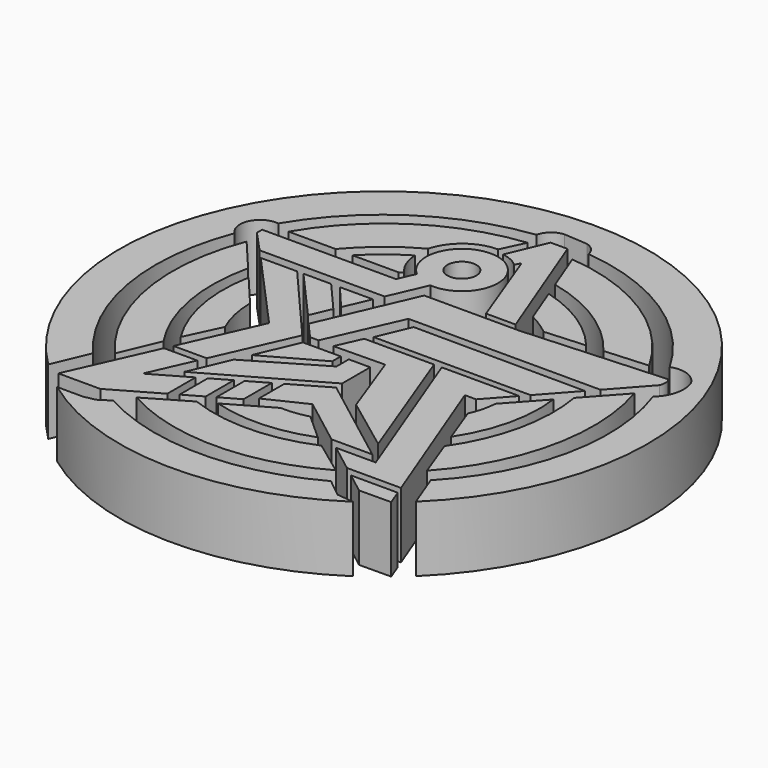
from build123d import *

# Parameters (mm, degrees)
F0_R     = 2.206267
F1_DEPTH = 10


with BuildPart() as f1:
    # F0 (on Top) → F1 (new body)
    with BuildSketch(Plane.XY):
        with BuildLine():
            Line((-8.160051, 10.558454), (-5.707607, 16.196661))
            ThreePointArc((-5.707607, 16.196661), (-3.111134, 26.687053), (-8.783473, 17.488435))
            Line((-8.783473, 17.488435), (-9.9095, 14.899681))
            Line((-9.9095, 14.899681), (-30.305685, 14.899681))
            Line((-30.305685, 14.899681), (-30.305685, 13.89939))
            Line((-30.305685, 13.89939), (-27.231621, 10.558454))
            Line((-27.231621, 10.558454), (-8.160051, 10.558454))
        make_face()
        with Locations((-5.211, 21.597698)):
            Circle(F0_R, mode=Mode.SUBTRACT)
        with BuildLine():
            Line((-17.791193, 16.456968), (-10.785356, 16.456968))
            Line((-10.785356, 16.456968), (-10.160225, 16.788259))
            ThreePointArc((-10.160225, 16.788259), (-11.443322, 18.775511), (-11.945411, 21.087093))
            ThreePointArc((-11.945411, 21.087093), (-15.037333, 18.98544), (-17.791193, 16.456968))
        make_face()
        with BuildLine():
            ThreePointArc((-11.828013, 23.421209), (-9.361755, 27.062532), (-5.201459, 28.488573))
            Line((-5.201459, 28.488573), (-3.519176, 32.017265))
            ThreePointArc((-3.519176, 32.017265), (-17.378382, 27.098752), (-27.543692, 16.471624))
            Line((-27.543692, 16.471624), (-20.377357, 16.471624))
            ThreePointArc((-20.377357, 16.471624), (-16.425684, 20.343769), (-11.828013, 23.421209))
        make_face()
        with BuildLine():
            Line((-1.424065, 33.751212), (-3.916716, 27.801674))
            ThreePointArc((-3.916716, 27.801674), (-2.478493, 27.411224), (-1.244485, 26.575664))
            Line((-1.244485, 26.575664), (-0.780935, 27.44177))
            Line((-0.780935, 27.44177), (4.016954, 14.658319))
            Line((4.016954, 14.658319), (8.524759, 14.658319))
            Line((8.524759, 14.658319), (1.171164, 33.751212))
            Line((1.171164, 33.751212), (-1.424065, 33.751212))
        make_face()
        with BuildLine():
            ThreePointArc((5.767185, 25.624841), (14.221769, 22.091625), (20.949973, 15.871104))
            Line((20.949973, 15.871104), (27.561305, 16.318588))
            ThreePointArc((27.561305, 16.318588), (17.358373, 27.127784), (3.313791, 31.994841))
            Line((3.313791, 31.994841), (5.767185, 25.624841))
        make_face()
        with BuildLine():
            ThreePointArc((8.900849, 17.488588), (10.661104, 16.477152), (12.305066, 15.28598))
            Line((12.305066, 15.28598), (18.460409, 15.7026))
            ThreePointArc((18.460409, 15.7026), (13.146853, 20.411615), (6.661868, 23.301885))
            Line((6.661868, 23.301885), (8.900849, 17.488588))
        make_face()
        with BuildLine():
            Line((-8.538652, -3.18479), (-7.246167, -3.18479))
            Line((-7.246167, -3.18479), (-2.347436, 7.836217))
            Line((-2.347436, 7.836217), (26.92967, 7.836217))
            Line((26.92967, 7.836217), (31.664651, 13.121196))
            ThreePointArc((31.664651, 13.121196), (31.858951, 14.060598), (31.599302, 14.984076))
            Line((31.599302, 14.984076), (9.878736, 13.694647))
            Line((9.878736, 13.694647), (-4.634531, 13.694647))
            Line((-4.634531, 13.694647), (-10.844227, -0.581539))
            Line((-10.844227, -0.581539), (-8.538652, -3.18479))
        make_face()
        Polygon((21.305793, 1.559091), (25.676703, 6.43771), (-0.540337, 6.552964), (-2.632372, 1.559091), align=None)
        Polygon((-8.789597, 9.111119), (-13.819853, 9.111119), (-10.500227, 5.178354), align=None)
        Polygon((-15.15337, 9.111119), (-19.379593, 9.111119), (-12.277591, 1.092167), (-10.914928, 4.224951), align=None)
        Polygon((-20.343829, 9.111119), (-25.89998, 9.111119), (-14.624785, -3.388615), (-19.824501, -15.111743), (-14.757672, -15.111743), (-9.557957, -3.388615), align=None)
        Polygon((-8.369185, -4.767408), (-11.06822, -11.112422), (-2.587006, -6.389737), (-2.587006, -4.767408), align=None)
        Polygon((1.899398, -4.767408), (-1.367139, -4.767408), (-1.367139, -7.108427), (-12.030682, -13.37502), (-14.634387, -19.495927), (1.899398, -10.122532), align=None)
        Polygon((7.395385, 0.530604), (-3.236916, 0.530604), (-4.93186, -3.254772), (2.867269, -3.123561), (6.618928, -13.357226), (14.974818, -19.595129), align=None)
        Polygon((16.914712, -3.342042), (20.384338, 0.530604), (8.573711, 0.530604), (17.743919, -23.523211), (11.700341, -23.523211), (15.951396, -26.768949), (24.19761, -26.768949), (15.189558, -3.342042), align=None)
        with BuildLine():
            ThreePointArc((19.421562, -2.806914), (19.10687, -4.849291), (18.409508, -6.794546))
            Line((18.409508, -6.794546), (20.618835, -12.736638))
            ThreePointArc((20.618835, -12.736638), (23.739491, -5.4938), (24.117973, 2.383633))
            Line((24.117973, 2.383633), (19.421562, -2.806914))
        make_face()
        with BuildLine():
            ThreePointArc((25.799285, 4.241845), (25.550424, -5.858298), (21.503319, -15.115499))
            Line((21.503319, -15.115499), (23.827636, -21.366862))
            ThreePointArc((23.827636, -21.366862), (31.374849, -6.786378), (30.661955, 9.616144))
            Line((30.661955, 9.616144), (25.799285, 4.241845))
        make_face()
        with BuildLine():
            ThreePointArc((32.919805, 10.345283), (34.059871, -7.354304), (25.718371, -23.006604))
            Line((25.718371, -23.006604), (27.785989, -28.4341))
            ThreePointArc((27.785989, -28.4341), (40.017536, 1.903412), (25.682096, 31.305292))
            ThreePointArc((25.682096, 31.305292), (-16.017211, 37.170175), (-40.388612, 2.829763))
            ThreePointArc((-40.388612, 2.829763), (-37.779692, -13.947317), (-28.484943, -28.155925))
            Line((-28.484943, -28.155925), (-26.128077, -22.540232))
            ThreePointArc((-26.128077, -22.540232), (-34.033134, -6.060394), (-32.302855, 12.13524))
            ThreePointArc((-32.302855, 12.13524), (-32.936395, 15.641023), (-29.819049, 17.365563))
            ThreePointArc((-29.819049, 17.365563), (-18.858202, 28.813516), (-3.980401, 34.27674))
            ThreePointArc((-3.980401, 34.27674), (-3.067609, 35.791376), (-1.424065, 36.444116))
            Line((-1.424065, 36.444116), (2.216907, 36.202595))
            ThreePointArc((2.216907, 36.202595), (3.358667, 35.47776), (3.980401, 34.27674))
            ThreePointArc((3.980401, 34.27674), (18.861666, 29.014564), (29.710891, 17.54997))
            ThreePointArc((29.710891, 17.54997), (32.316941, 17.568373), (34.292258, 15.868384))
            ThreePointArc((34.292258, 15.868384), (34.451823, 12.89666), (32.919805, 10.345283))
        make_face()
        Polygon((24.659269, -27.969567), (17.523887, -27.969567), (20.705944, -30.39911), (25.577858, -30.358508), align=None)
        with BuildLine():
            ThreePointArc((9.991777, -24.165902), (0.676742, -26.199562), (-8.718491, -24.576217))
            Line((-8.718491, -24.576217), (-14.955248, -28.228002))
            ThreePointArc((-14.955248, -28.228002), (0.186343, -32.118382), (15.284814, -28.063877))
            Line((15.284814, -28.063877), (9.991777, -24.165902))
        make_face()
        with BuildLine():
            Line((21.95497, -33.126518), (19.401744, -32.850493))
            Line((19.401744, -32.850493), (16.586332, -30.608531))
            ThreePointArc((16.586332, -30.608531), (-0.023335, -34.839951), (-16.627841, -30.588325))
            Line((-16.627841, -30.588325), (-18.358964, -31.686813))
            Line((-18.358964, -31.686813), (-20.070761, -32.034975))
            Line((-20.070761, -32.034975), (-24.016598, -32.034975))
            ThreePointArc((-24.016598, -32.034975), (-1.202355, -39.80537), (21.95497, -33.126518))
        make_face()
        with BuildLine():
            ThreePointArc((4.287132, -19.149317), (2.211978, -19.547372), (0.100512, -19.627518))
            Line((0.100512, -19.627518), (-6.427518, -23.367613))
            ThreePointArc((-6.427518, -23.367613), (0.990325, -24.297805), (8.307865, -22.767031))
            Line((8.307865, -22.767031), (4.287132, -19.149317))
        make_face()
        Polygon((-3.413936, -14.486767), (-3.413936, -19.324101), (2.488051, -16.489504), (9.905417, -22.152763), (16.130667, -22.152763), (2.00896, -11.384296), align=None)
        Polygon((-4.727307, -20.617453), (-4.727307, -15.238155), (-7.572549, -16.865935), (-7.572549, -22.245234), align=None)
        Polygon((-8.691986, -22.88567), (-8.691986, -17.506372), (-11.41796, -19.065918), (-11.41796, -24.445216), align=None)
        with BuildLine():
            ThreePointArc((-18.099004, -7.440777), (-19.18001, -4.212386), (-19.570322, -0.830265))
            Line((-19.570322, -0.830265), (-23.858583, 4.257503))
            ThreePointArc((-23.858583, 4.257503), (-23.846933, -4.564648), (-20.599757, -12.767472))
            Line((-20.599757, -12.767472), (-18.099004, -7.440777))
        make_face()
        with BuildLine():
            ThreePointArc((-21.510569, -14.90865), (-25.627291, -4.812603), (-25.401565, 6.088159))
            Line((-25.401565, 6.088159), (-29.848937, 11.364702))
            ThreePointArc((-29.848937, 11.364702), (-31.473546, -5.594543), (-24.077072, -20.942101))
            Line((-24.077072, -20.942101), (-21.510569, -14.90865))
        make_face()
        Polygon((-12.701282, -25.179413), (-12.701282, -19.800114), (-18.243536, -22.970871), (-15.270174, -16.267214), (-20.344572, -16.267214), (-26.11826, -29.194934), (-19.720124, -29.194934), align=None)
    extrude(amount=F1_DEPTH)


solid = f1.part
